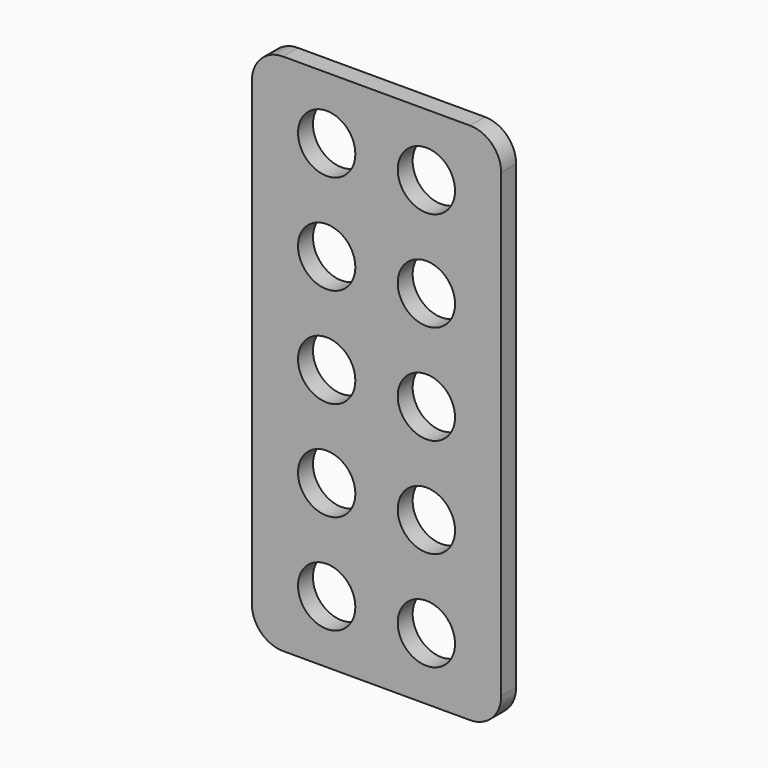
from build123d import *

# Parameters (mm, degrees)
F0_W     = 20
F0_H     = 84
F0_R     = 4.6
F1_DEPTH = 3
F2_R     = 5


with BuildPart() as f1:
    # F0 (on Front) → F1 (new body)
    with BuildSketch(Plane.XZ):
        with Locations((-33.898029, 2.626098)):
            Rectangle(F0_W, F0_H)
        with Locations((-31.898029, -29.373902)):
            Circle(F0_R, mode=Mode.SUBTRACT)
        with Locations((-31.898029, -13.373902)):
            Circle(F0_R, mode=Mode.SUBTRACT)
        with Locations((-31.898029, 2.626098)):
            Circle(F0_R, mode=Mode.SUBTRACT)
        with Locations((-31.898029, 18.626098)):
            Circle(F0_R, mode=Mode.SUBTRACT)
        with Locations((-31.898029, 34.626098)):
            Circle(F0_R, mode=Mode.SUBTRACT)
        with Locations((-13.898029, 2.626098)):
            Rectangle(F0_W, F0_H)
        with Locations((-15.898029, -29.373902)):
            Circle(F0_R, mode=Mode.SUBTRACT)
        with Locations((-15.898029, -13.373902)):
            Circle(F0_R, mode=Mode.SUBTRACT)
        with Locations((-15.898029, 2.626098)):
            Circle(F0_R, mode=Mode.SUBTRACT)
        with Locations((-15.898029, 18.626098)):
            Circle(F0_R, mode=Mode.SUBTRACT)
        with Locations((-15.898029, 34.626098)):
            Circle(F0_R, mode=Mode.SUBTRACT)
    extrude(amount=F1_DEPTH)

    # F2
    f2_edges = [f1.edges().sort_by_distance(p)[0] for p in [
        (-43.898029, -1.5, 44.626098),
        (-3.898029, -1.5, 44.626098),
        (-3.898029, -1.5, -39.373902),
        (-43.898029, -1.5, -39.373902),
    ]]
    fillet(f2_edges, radius=F2_R)


solid = f1.part
